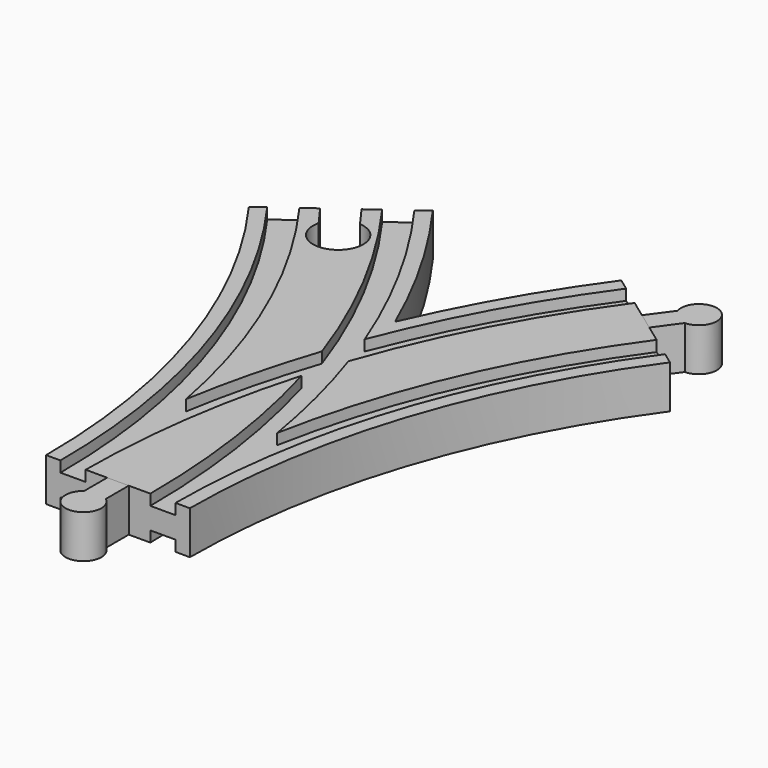
from build123d import *

# Parameters (mm, degrees)
SKETCH003_W       = 7
SKETCH003_H       = 3
SKETCH004_W       = 7
SKETCH004_H       = 3
SKETCH005_W       = 7
SKETCH005_H       = 3
SKETCH006_W       = 7
SKETCH006_H       = 3
POCKET_DEPTH      = 6.001
POCKET_DEPTH_BACK = -6.001
PAD_DEPTH         = 6
PAD001_DEPTH      = 6


with BuildPart() as main:
    # AdditivePipe: sweep along a path in Sketch
    with BuildLine(Plane.XY) as additivepipe_path:
        ThreePointArc((0, 0), (-10.865453, 68.601773), (-42.398227, 130.488326))
    # Sketch002 → AdditivePipe (sweep)
    with BuildSketch(Plane.XZ):
        Polygon((-20, 6), (-20, -6), (-16, -6), (-16, -3), (-9, -3), (-9, -6), (9, -6), (9, -3), (16, -3), (16, -6), (20, -6), (20, 6), (16, 6), (16, 3), (9, 3), (9, 6), (-9, 6), (-9, 3), (-16, 3), (-16, 6), align=None)
    sweep(path=additivepipe_path.line)

    # AdditivePipe001: sweep along a path in Sketch001
    with BuildLine(Plane.XY) as additivepipe001_path:
        ThreePointArc((42.398227, 130.488326), (10.865453, 68.601773), (0, 0))
    # Sketch002 → AdditivePipe001 (sweep)
    with BuildSketch(Plane.XZ):
        Polygon((-20, 6), (-20, -6), (-16, -6), (-16, -3), (-9, -3), (-9, -6), (9, -6), (9, -3), (16, -3), (16, -6), (20, -6), (20, 6), (16, 6), (16, 3), (9, 3), (9, 6), (-9, 6), (-9, 3), (-16, 3), (-16, 6), align=None)
    sweep(path=additivepipe001_path.line)

    # SubtractivePipe: sweep along a path in Sketch
    with BuildLine(Plane.XY) as subtractivepipe_path:
        ThreePointArc((0, 0), (-10.865453, 68.601773), (-42.398227, 130.488326))
    # Sketch003 → SubtractivePipe (sweep, cut)
    with BuildSketch(Plane.XZ):
        with Locations((-12.5, 4.5)):
            Rectangle(SKETCH003_W, SKETCH003_H)
    sweep(path=subtractivepipe_path.line, mode=Mode.SUBTRACT)

    # SubtractivePipe001: sweep along a path in Sketch001
    with BuildLine(Plane.XY) as subtractivepipe001_path:
        ThreePointArc((42.398227, 130.488326), (10.865453, 68.601773), (0, 0))
    # Sketch003 → SubtractivePipe001 (sweep, cut)
    with BuildSketch(Plane.XZ):
        with Locations((-12.5, 4.5)):
            Rectangle(SKETCH003_W, SKETCH003_H)
    sweep(path=subtractivepipe001_path.line, mode=Mode.SUBTRACT)

    # SubtractivePipe002: sweep along a path in Sketch
    with BuildLine(Plane.XY) as subtractivepipe002_path:
        ThreePointArc((0, 0), (-10.865453, 68.601773), (-42.398227, 130.488326))
    # Sketch004 → SubtractivePipe002 (sweep, cut)
    with BuildSketch(Plane.XZ):
        with Locations((12.5, 4.5)):
            Rectangle(SKETCH004_W, SKETCH004_H)
    sweep(path=subtractivepipe002_path.line, mode=Mode.SUBTRACT)

    # SubtractivePipe003: sweep along a path in Sketch001
    with BuildLine(Plane.XY) as subtractivepipe003_path:
        ThreePointArc((42.398227, 130.488326), (10.865453, 68.601773), (0, 0))
    # Sketch004 → SubtractivePipe003 (sweep, cut)
    with BuildSketch(Plane.XZ):
        with Locations((12.5, 4.5)):
            Rectangle(SKETCH004_W, SKETCH004_H)
    sweep(path=subtractivepipe003_path.line, mode=Mode.SUBTRACT)

    # SubtractivePipe004: sweep along a path in Sketch
    with BuildLine(Plane.XY) as subtractivepipe004_path:
        ThreePointArc((0, 0), (-10.865453, 68.601773), (-42.398227, 130.488326))
    # Sketch005 → SubtractivePipe004 (sweep, cut)
    with BuildSketch(Plane.XZ):
        with Locations((-12.5, -4.5)):
            Rectangle(SKETCH005_W, SKETCH005_H)
    sweep(path=subtractivepipe004_path.line, mode=Mode.SUBTRACT)

    # SubtractivePipe005: sweep along a path in Sketch001
    with BuildLine(Plane.XY) as subtractivepipe005_path:
        ThreePointArc((42.398227, 130.488326), (10.865453, 68.601773), (0, 0))
    # Sketch005 → SubtractivePipe005 (sweep, cut)
    with BuildSketch(Plane.XZ):
        with Locations((-12.5, -4.5)):
            Rectangle(SKETCH005_W, SKETCH005_H)
    sweep(path=subtractivepipe005_path.line, mode=Mode.SUBTRACT)

    # SubtractivePipe006: sweep along a path in Sketch
    with BuildLine(Plane.XY) as subtractivepipe006_path:
        ThreePointArc((0, 0), (-10.865453, 68.601773), (-42.398227, 130.488326))
    # Sketch006 → SubtractivePipe006 (sweep, cut)
    with BuildSketch(Plane.XZ):
        with Locations((12.5, -4.5)):
            Rectangle(SKETCH006_W, SKETCH006_H)
    sweep(path=subtractivepipe006_path.line, mode=Mode.SUBTRACT)

    # SubtractivePipe007: sweep along a path in Sketch001
    with BuildLine(Plane.XY) as subtractivepipe007_path:
        ThreePointArc((42.398227, 130.488326), (10.865453, 68.601773), (0, 0))
    # Sketch006 → SubtractivePipe007 (sweep, cut)
    with BuildSketch(Plane.XZ):
        with Locations((12.5, -4.5)):
            Rectangle(SKETCH006_W, SKETCH006_H)
    sweep(path=subtractivepipe007_path.line, mode=Mode.SUBTRACT)

    # Sketch008 → Pocket (cut, two sides)
    with BuildSketch(Plane.XY) as pocket_sk:
        with BuildLine():
            Line((-46.038804, 127.843292), (-38.757651, 133.13336))
            Line((-38.757651, 133.13336), (-34.643154, 127.470241))
            ThreePointArc((-41.924307, 122.180173), (-31.017586, 114.824218), (-34.643154, 127.470241))
            Line((-46.038804, 127.843292), (-41.924307, 122.180173))
        make_face()
    extrude(amount=-POCKET_DEPTH, mode=Mode.SUBTRACT)
    extrude(pocket_sk.sketch, amount=-POCKET_DEPTH_BACK, mode=Mode.SUBTRACT)


with BuildPart() as male1:
    # Sketch010 → Pad (new body, symmetric)
    with BuildSketch(Plane.XY):
        with BuildLine():
            Line((-3, 0), (3, 0))
            Line((3, 0), (3, -8))
            ThreePointArc((-3, -8), (0, -17), (3, -8))
            Line((-3, 0), (-3, -8))
        make_face()
    extrude(amount=PAD_DEPTH, both=True)


with BuildPart() as male3:
    # Sketch011 → Pad001 (new body, symmetric)
    with BuildSketch(Plane.XY):
        with BuildLine():
            Line((39.971176, 132.251682), (44.825278, 128.72497))
            Line((44.825278, 128.72497), (49.52756, 135.197106))
            ThreePointArc((49.52756, 135.197106), (52.390577, 144.241615), (44.673458, 138.723818))
            Line((39.971176, 132.251682), (44.673458, 138.723818))
        make_face()
    extrude(amount=PAD001_DEPTH, both=True)


solid = Compound([main.part, male1.part, male3.part])
